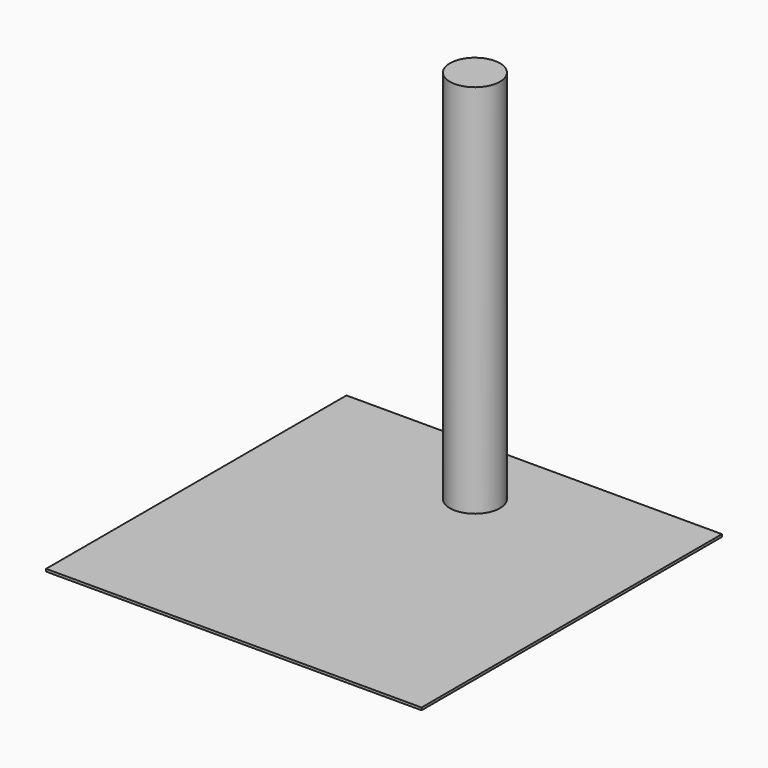
from build123d import *

# Parameters (mm, degrees)
F0_W     = 150
F0_H     = 150
F1_DEPTH = 1
F2_R     = 10
F3_DEPTH = 150


with BuildPart() as f1:
    # F0 (on Top) → F1 (new body)
    with BuildSketch(Plane.XY):
        Rectangle(F0_W, F0_H)
    extrude(amount=-F1_DEPTH)

    # F2 (on face) → F3 (join)
    with BuildSketch(Plane.XY):
        with Locations((0, 45.406394)):
            Circle(F2_R)
    extrude(amount=F3_DEPTH)


solid = f1.part
